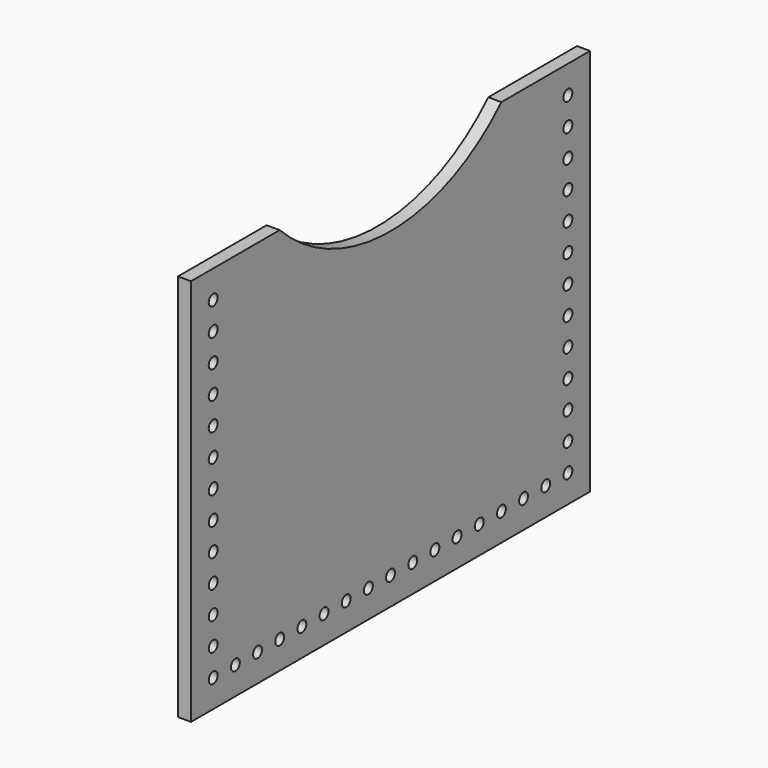
from build123d import *

# Parameters (mm, degrees)
F0_R     = 2.5527
F1_DEPTH = 6


with BuildPart() as f1:
    # F0 (on Right) → F1 (new body)
    with BuildSketch(Plane.YZ):
        with BuildLine():
            Line((-63.5, 177.8), (-114.3, 177.8))
            Line((-114.3, 177.8), (-114.3, 0))
            Line((-114.3, 0), (114.3, 0))
            Line((114.3, 0), (114.3, 177.8))
            Line((114.3, 177.8), (63.5, 177.8))
            ThreePointArc((63.5, 177.8), (0, 151.497439), (-63.5, 177.8))
        make_face()
        with Locations((-101.6, 12.7)):
            Circle(F0_R, mode=Mode.SUBTRACT)
        with Locations((-88.9, 12.7)):
            Circle(F0_R, mode=Mode.SUBTRACT)
        with Locations((-76.2, 12.7)):
            Circle(F0_R, mode=Mode.SUBTRACT)
        with Locations((-63.5, 12.7)):
            Circle(F0_R, mode=Mode.SUBTRACT)
        with Locations((-101.6, 25.4)):
            Circle(F0_R, mode=Mode.SUBTRACT)
        with Locations((-101.6, 38.1)):
            Circle(F0_R, mode=Mode.SUBTRACT)
        with Locations((-50.8, 12.7)):
            Circle(F0_R, mode=Mode.SUBTRACT)
        with Locations((-38.1, 12.7)):
            Circle(F0_R, mode=Mode.SUBTRACT)
        with Locations((-25.4, 12.7)):
            Circle(F0_R, mode=Mode.SUBTRACT)
        with Locations((-12.7, 12.7)):
            Circle(F0_R, mode=Mode.SUBTRACT)
        with Locations((-101.6, 50.8)):
            Circle(F0_R, mode=Mode.SUBTRACT)
        with Locations((-101.6, 63.5)):
            Circle(F0_R, mode=Mode.SUBTRACT)
        with Locations((-101.6, 76.2)):
            Circle(F0_R, mode=Mode.SUBTRACT)
        with Locations((0, 12.7)):
            Circle(F0_R, mode=Mode.SUBTRACT)
        with Locations((12.7, 12.7)):
            Circle(F0_R, mode=Mode.SUBTRACT)
        with Locations((25.4, 12.7)):
            Circle(F0_R, mode=Mode.SUBTRACT)
        with Locations((38.1, 12.7)):
            Circle(F0_R, mode=Mode.SUBTRACT)
        with Locations((50.8, 12.7)):
            Circle(F0_R, mode=Mode.SUBTRACT)
        with Locations((63.5, 12.7)):
            Circle(F0_R, mode=Mode.SUBTRACT)
        with Locations((76.2, 12.7)):
            Circle(F0_R, mode=Mode.SUBTRACT)
        with Locations((88.9, 12.7)):
            Circle(F0_R, mode=Mode.SUBTRACT)
        with Locations((101.6, 12.7)):
            Circle(F0_R, mode=Mode.SUBTRACT)
        with Locations((101.6, 25.4)):
            Circle(F0_R, mode=Mode.SUBTRACT)
        with Locations((101.6, 38.1)):
            Circle(F0_R, mode=Mode.SUBTRACT)
        with Locations((101.6, 50.8)):
            Circle(F0_R, mode=Mode.SUBTRACT)
        with Locations((101.6, 63.5)):
            Circle(F0_R, mode=Mode.SUBTRACT)
        with Locations((101.6, 76.2)):
            Circle(F0_R, mode=Mode.SUBTRACT)
        with Locations((-101.6, 88.9)):
            Circle(F0_R, mode=Mode.SUBTRACT)
        with Locations((-101.6, 101.6)):
            Circle(F0_R, mode=Mode.SUBTRACT)
        with Locations((-101.6, 114.3)):
            Circle(F0_R, mode=Mode.SUBTRACT)
        with Locations((-101.6, 127)):
            Circle(F0_R, mode=Mode.SUBTRACT)
        with Locations((-101.6, 139.7)):
            Circle(F0_R, mode=Mode.SUBTRACT)
        with Locations((-101.6, 152.4)):
            Circle(F0_R, mode=Mode.SUBTRACT)
        with Locations((-101.6, 165.1)):
            Circle(F0_R, mode=Mode.SUBTRACT)
        with Locations((101.6, 88.9)):
            Circle(F0_R, mode=Mode.SUBTRACT)
        with Locations((101.6, 101.6)):
            Circle(F0_R, mode=Mode.SUBTRACT)
        with Locations((101.6, 114.3)):
            Circle(F0_R, mode=Mode.SUBTRACT)
        with Locations((101.6, 127)):
            Circle(F0_R, mode=Mode.SUBTRACT)
        with Locations((101.6, 139.7)):
            Circle(F0_R, mode=Mode.SUBTRACT)
        with Locations((101.6, 152.4)):
            Circle(F0_R, mode=Mode.SUBTRACT)
        with Locations((101.6, 165.1)):
            Circle(F0_R, mode=Mode.SUBTRACT)
    extrude(amount=F1_DEPTH)


solid = f1.part
